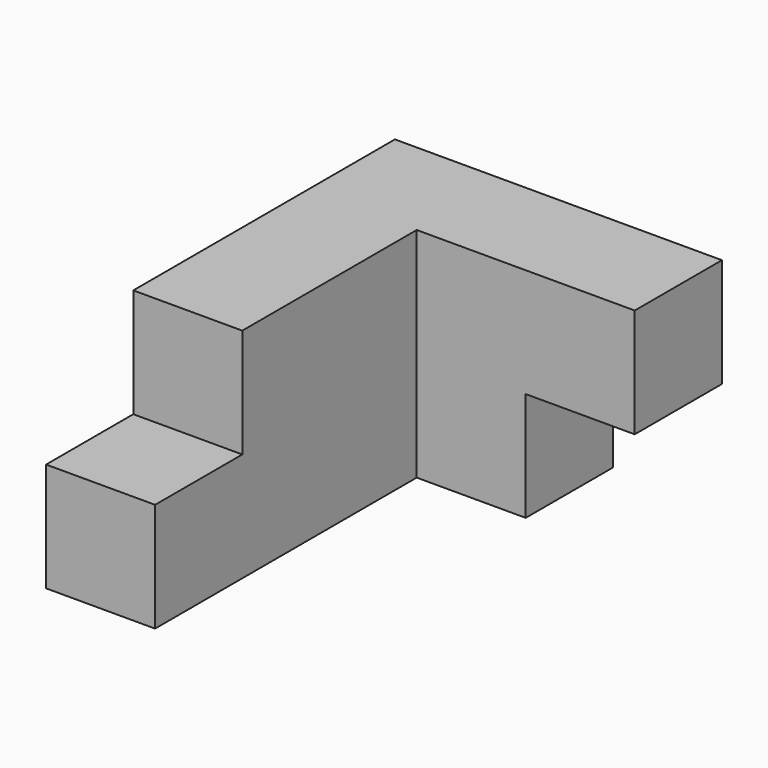
from build123d import *

# Parameters (mm, degrees)
F0_W     = 101.6
F0_H     = 50.8
F1_DEPTH = 25.4
F2_W     = 25.4
F2_H     = 25.4
F3_DEPTH = 25.4
F4_W     = 25.4
F4_H     = 50.8
F5_DEPTH = 25.4
F6_W     = 25.4
F6_H     = 25.4
F7_DEPTH = 25.4


with BuildPart() as f1:
    # F0 (on Right) → F1 (new body)
    with BuildSketch(Plane.YZ):
        with Locations((50.8, 25.4)):
            Rectangle(F0_W, F0_H)
    extrude(amount=F1_DEPTH)

    # F2 (on face) → F3 (cut)
    with BuildSketch(Plane.YZ.offset(25.4)):
        with Locations((12.7, 38.1)):
            Rectangle(F2_W, F2_H)
    extrude(amount=-F3_DEPTH, mode=Mode.SUBTRACT)

    # F4 (on face) → F5 (join)
    with BuildSketch(Plane.YZ.offset(25.4)):
        with Locations((88.9, 25.4)):
            Rectangle(F4_W, F4_H)
    extrude(amount=F5_DEPTH)

    # F6 (on face) → F7 (join)
    with BuildSketch(Plane.YZ.offset(50.8)):
        with Locations((88.9, 38.1)):
            Rectangle(F6_W, F6_H)
    extrude(amount=F7_DEPTH)


solid = f1.part
